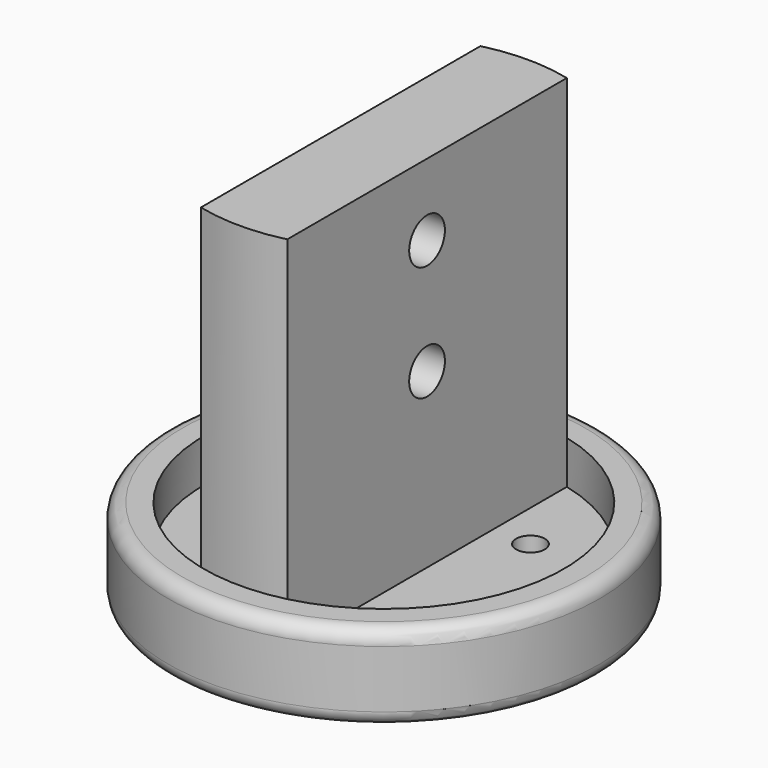
from build123d import *

# Parameters (mm, degrees)
SKETCH_R        = 15
PAD_DEPTH       = 6
FILLET_R        = 1
FILLET001_R     = 1
SKETCH001_R     = 12.5
POCKET_DEPTH    = 3
PAD001_DEPTH    = 25
SKETCH003_R     = 1.55
POCKET001_DEPTH = 20
SKETCH004_R     = 1
POCKET002_DEPTH = 6


with BuildPart() as part:
    # Sketch → Pad (new body)
    with BuildSketch(Plane.XY):
        Circle(SKETCH_R)
    extrude(amount=PAD_DEPTH)

    # Fillet
    fillet_edges = [part.edges().sort_by_distance(p)[0] for p in [
        (-15, 0, 0),
    ]]
    fillet(fillet_edges, radius=FILLET_R)

    # Fillet001
    fillet001_edges = [part.edges().sort_by_distance(p)[0] for p in [
        (-15, 0, 6),
    ]]
    fillet(fillet001_edges, radius=FILLET001_R)

    # Sketch001 (on Face4 of Fillet001) → Pocket (cut)
    with BuildSketch(Plane.XY.offset(6)):
        Circle(SKETCH001_R)
    extrude(amount=-POCKET_DEPTH, mode=Mode.SUBTRACT)

    # Sketch002 (on Face7 of Pocket) → Pad001 (join)
    with BuildSketch(Plane.XY.offset(3)):
        with BuildLine():
            Line((-3, 12.134661), (-3, -12.134661))
            ThreePointArc((-3, -12.134661), (0, -12.5), (3, -12.134661))
            Line((3, 12.134661), (3, -12.134661))
            ThreePointArc((3, 12.134661), (0, 12.5), (-3, 12.134661))
        make_face()
    extrude(amount=PAD001_DEPTH)

    # Sketch003 (on Face11 of Pad001) → Pocket001 (cut)
    with BuildSketch(Plane.YZ.offset(3)):
        with Locations((0, 23)):
            Circle(SKETCH003_R)
        with Locations((0, 15)):
            Circle(SKETCH003_R)
    extrude(amount=-POCKET001_DEPTH, mode=Mode.SUBTRACT)

    # Sketch004 (on Face3 of Pad) → Pocket002 (cut)
    with BuildSketch(Plane.XY.offset(6)):
        with Locations((-5.656854, 5.656854)):
            Circle(SKETCH004_R)
        with Locations((5.656854, 5.656854)):
            Circle(SKETCH004_R)
        with Locations((-5.656854, -5.656854)):
            Circle(SKETCH004_R)
        with Locations((5.656854, -5.656854)):
            Circle(SKETCH004_R)
    extrude(amount=-POCKET002_DEPTH, mode=Mode.SUBTRACT)


solid = part.part
